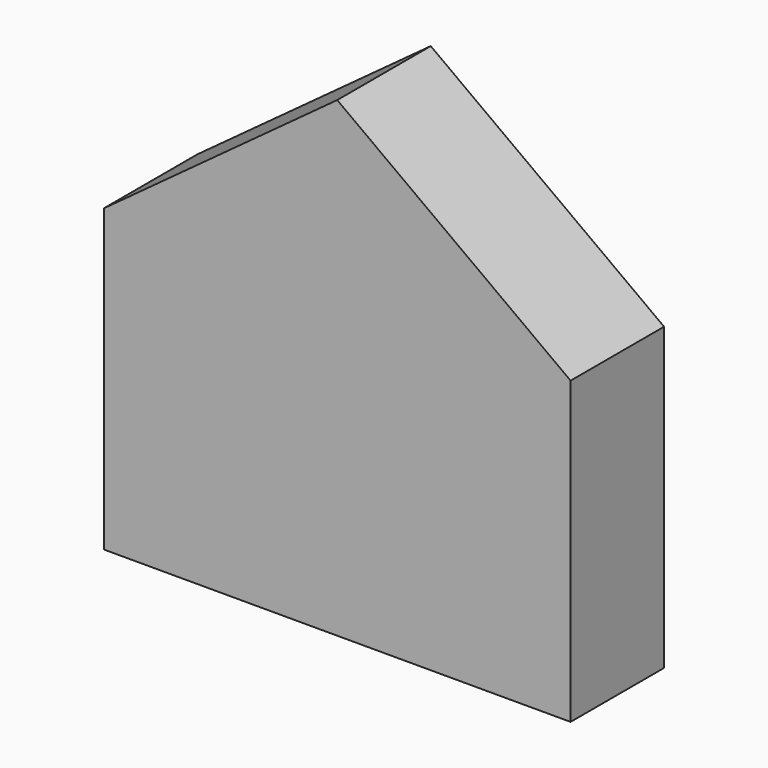
from build123d import *

# Parameters (mm, degrees)
F0_W     = 101.417362
F0_H     = 65.29244
F1_DEPTH = 25.4


with BuildPart() as f1:
    # F0 (on Front) → F1 (new body)
    with BuildSketch(Plane.XZ):
        Rectangle(F0_W, F0_H)
        Polygon((-50.708681, 32.64622), (50.708681, 32.64622), (0, 69.841512), align=None)
    extrude(amount=F1_DEPTH)


solid = f1.part
